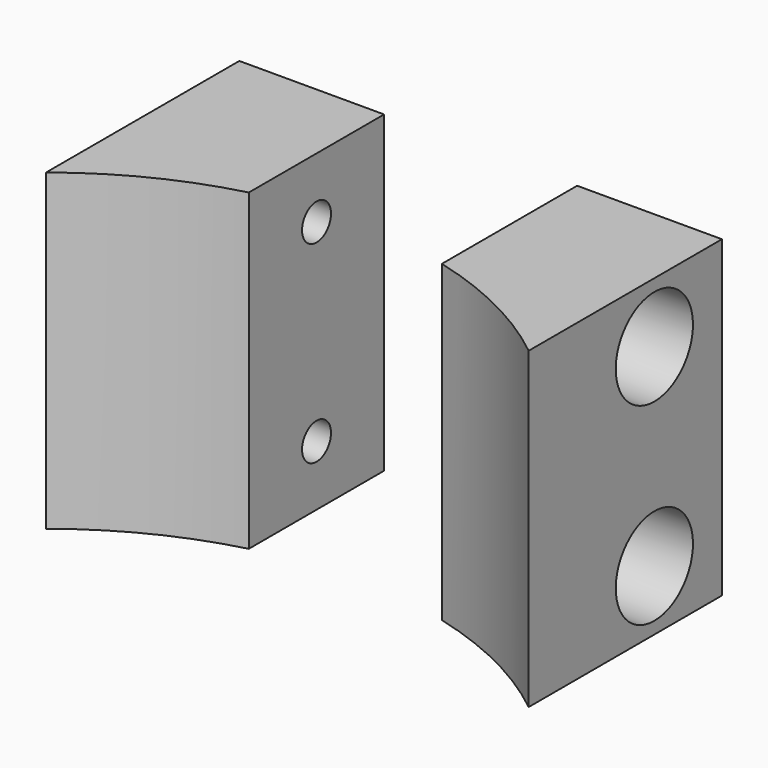
from build123d import *

# Parameters (mm, degrees)
CYLINDER221_R     = 1.5
CYLINDER221_DEPTH = 20
CYLINDER220_R     = 1.5
CYLINDER220_DEPTH = 20
CYLINDER219_R     = 4
CYLINDER219_DEPTH = 20
CYLINDER218_R     = 4
CYLINDER218_DEPTH = 20
CYLINDER212_R     = 4
CYLINDER212_DEPTH = 20
CYLINDER217_R     = 4
CYLINDER217_DEPTH = 20
CYLINDER216_R     = 1.5
CYLINDER216_DEPTH = 20
CYLINDER214_R     = 1.5
CYLINDER214_DEPTH = 20
CYLINDER211_R     = 32
CYLINDER211_DEPTH = 40
BOX094_W          = 16
BOX094_H          = 25
BOX094_DEPTH      = 26
BOX093_W          = 40
BOX093_H          = 30
BOX093_DEPTH      = 26


with BuildPart() as obj1:
    # Cylinder221 → Cylinder221 (new body)
    with BuildSketch(Plane(origin=(4, 38, 18), x_dir=(0, 0, -1), z_dir=(1, 0, 0))):
        Circle(CYLINDER221_R)
    extrude(amount=CYLINDER221_DEPTH)


with BuildPart() as compound553:
    # Cylinder220 → Cylinder220 (new body)
    with BuildSketch(Plane(origin=(4, 38, 2), x_dir=(0, 0, -1), z_dir=(1, 0, 0))):
        Circle(CYLINDER220_R)
    extrude(amount=CYLINDER220_DEPTH)

    # Compound553: union obj1
    add(obj1.part)


with BuildPart() as obj2:
    # Cylinder219 → Cylinder219 (new body)
    with BuildSketch(Plane(origin=(12, 38, 2), x_dir=(0, 0, -1), z_dir=(1, 0, 0))):
        Circle(CYLINDER219_R)
    extrude(amount=CYLINDER219_DEPTH)


with BuildPart() as compound552:
    # Cylinder218 → Cylinder218 (new body)
    with BuildSketch(Plane(origin=(12, 38, 18), x_dir=(0, 0, -1), z_dir=(1, 0, 0))):
        Circle(CYLINDER218_R)
    extrude(amount=CYLINDER218_DEPTH)

    # Compound552: union obj2
    add(obj2.part)


with BuildPart() as obj3:
    # Cylinder212 → Cylinder212 (new body)
    with BuildSketch(Plane(origin=(-32, 38, 2), x_dir=(0, 0, -1), z_dir=(1, 0, 0))):
        Circle(CYLINDER212_R)
    extrude(amount=CYLINDER212_DEPTH)


with BuildPart() as compound550:
    # Cylinder217 → Cylinder217 (new body)
    with BuildSketch(Plane(origin=(-32, 38, 18), x_dir=(0, 0, -1), z_dir=(1, 0, 0))):
        Circle(CYLINDER217_R)
    extrude(amount=CYLINDER217_DEPTH)

    # Compound550: union obj3
    add(obj3.part)


with BuildPart() as obj4:
    # Cylinder216 → Cylinder216 (new body)
    with BuildSketch(Plane(origin=(-24, 38, 18), x_dir=(0, 0, -1), z_dir=(1, 0, 0))):
        Circle(CYLINDER216_R)
    extrude(amount=CYLINDER216_DEPTH)


with BuildPart() as compound551:
    # Cylinder214 → Cylinder214 (new body)
    with BuildSketch(Plane(origin=(-24, 38, 2), x_dir=(0, 0, -1), z_dir=(1, 0, 0))):
        Circle(CYLINDER214_R)
    extrude(amount=CYLINDER214_DEPTH)

    # Compound551: union obj4
    add(obj4.part)


with BuildPart() as obj5:
    # Cylinder211 → Cylinder211 (new body)
    with BuildSketch(Plane.XY.offset(-8)):
        Circle(CYLINDER211_R)
    extrude(amount=CYLINDER211_DEPTH)


with BuildPart() as krychle094:
    # Box094 → Box094 (new body)
    with BuildSketch(Plane(origin=(-8, 20, -3), x_dir=(1, 0, 0), z_dir=(0, 0, 1))):
        with Locations((8, 12.5)):
            Rectangle(BOX094_W, BOX094_H)
    extrude(amount=BOX094_DEPTH)


with BuildPart() as cut327:
    # Box093 → Box093 (new body)
    with BuildSketch(Plane(origin=(-20, 15, -3), x_dir=(1, 0, 0), z_dir=(0, 0, 1))):
        with Locations((20, 15)):
            Rectangle(BOX093_W, BOX093_H)
    extrude(amount=BOX093_DEPTH)

    # Cut322: cut Krychle094
    add(krychle094.part, mode=Mode.SUBTRACT)

    # Cut323: cut obj5
    add(obj5.part, mode=Mode.SUBTRACT)

    # Cut324: cut Compound551
    add(compound551.part, mode=Mode.SUBTRACT)

    # Cut325: cut Compound550
    add(compound550.part, mode=Mode.SUBTRACT)

    # Cut326: cut Compound552
    add(compound552.part, mode=Mode.SUBTRACT)

    # Cut327: cut Compound553
    add(compound553.part, mode=Mode.SUBTRACT)


solid = cut327.part
